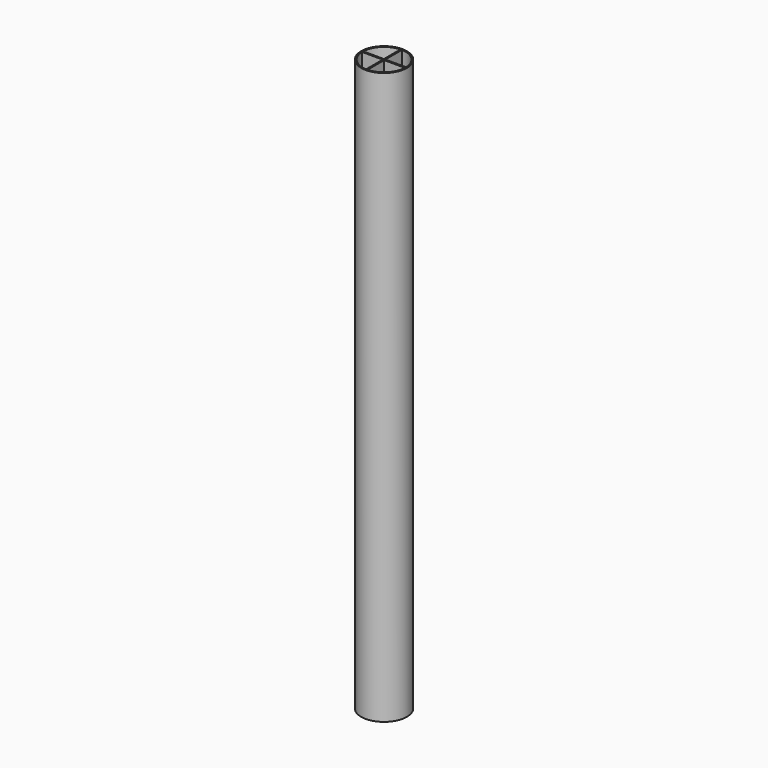
from build123d import *

# Parameters (mm, degrees)
SKETCH_R     = 8
PAD_DEPTH    = 200
SKETCH001_R  = 7.5
POCKET_DEPTH = 200
PAD001_DEPTH = 200


with BuildPart() as part:
    # Sketch → Pad (new body)
    with BuildSketch(Plane.XY):
        Circle(SKETCH_R)
    extrude(amount=PAD_DEPTH)

    # Sketch001 (on Face3 of Pad) → Pocket (cut)
    with BuildSketch(Plane.XY.offset(200)):
        Circle(SKETCH001_R)
    extrude(amount=-POCKET_DEPTH, mode=Mode.SUBTRACT)

    # Sketch002 (on Face3 of Pocket) → Pad001 (join)
    with BuildSketch(Plane.XY.offset(200)):
        Polygon((-0.25, 7.75), (0.25, 7.75), (0.25, 0.25), (7.75, 0.25), (7.75, -0.25), (0.25, -0.25), (0.25, -7.75), (-0.25, -7.75), (-0.25, -0.25), (-7.75, -0.25), (-7.75, 0.25), (-0.25, 0.25), align=None)
    extrude(amount=-PAD001_DEPTH)


solid = part.part
